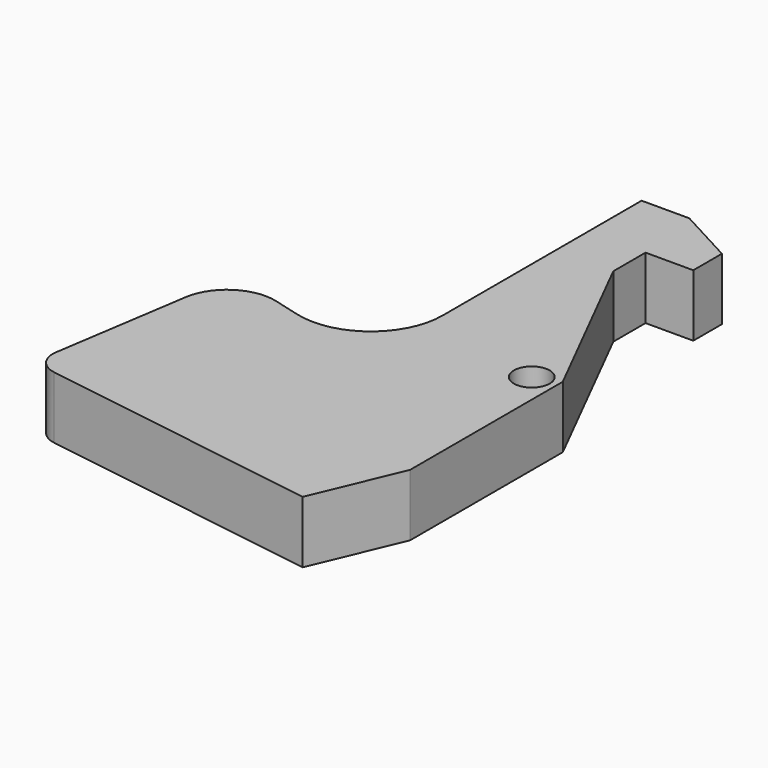
from build123d import *

# Parameters (mm, degrees)
F1_DEPTH = 3.302
F2_R     = 3.81
F3_R     = 2.54
F5_D     = 1.905
F6_R     = 1.27


with BuildPart() as f1:
    # F0 (on Top) → F1 (new body)
    with BuildSketch(Plane.XY):
        Polygon((2.54, 0), (0, 0), (0, -18.206947), (-8.938958, -15.811761), (-10.669027, -27.110069), (5.650751, -29.609057), (7.62, -24.926274), (7.62, -14.766274), (3.048, -5.693104), (3.048, -3.547886), (5.588, -3.547886), (5.588, -1.642886), align=None)
    extrude(amount=F1_DEPTH)

    # F2
    f2_edges = [f1.edges().sort_by_distance(p)[0] for p in [
        (0, -18.206947, 1.651),
    ]]
    fillet(f2_edges, radius=F2_R)

    # F3
    f3_edges = [f1.edges().sort_by_distance(p)[0] for p in [
        (-8.938958, -15.811761, 1.651),
    ]]
    fillet(f3_edges, radius=F3_R)

    # F5 (through all)
    with Locations(Plane.XY.offset(3.302)):
        with Locations((6.35, -15.24)):
            Hole(F5_D / 2)

    # F6
    f6_edges = [f1.edges().sort_by_distance(p)[0] for p in [
        (-10.669027, -27.110069, 1.651),
    ]]
    fillet(f6_edges, radius=F6_R)


solid = f1.part
